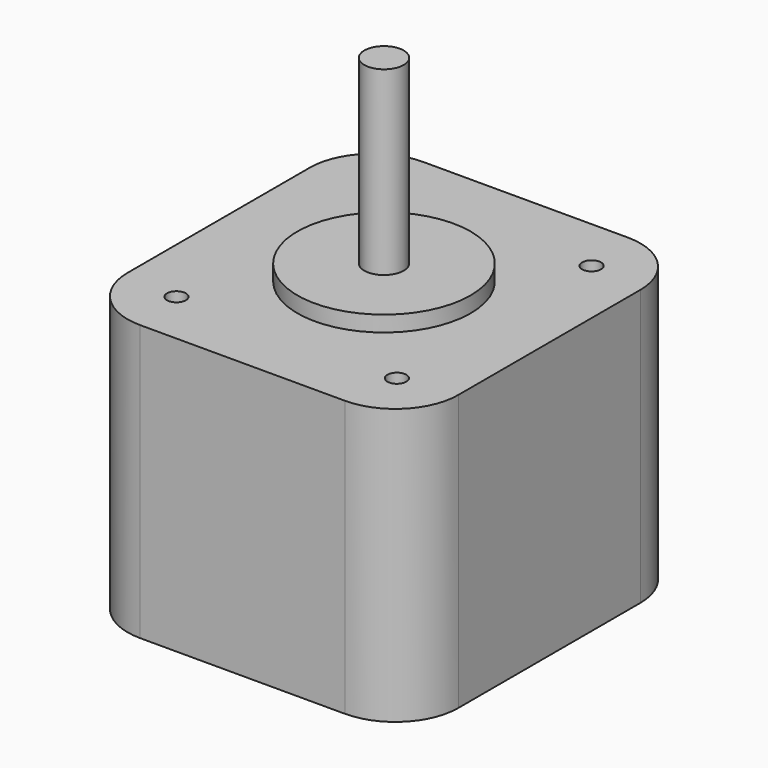
from build123d import *

# Parameters (mm, degrees)
F0_W     = 42
F0_H     = 44.9056578597
F0_R     = 1.5
F0_R_2   = 11
F0_R_3   = 2.5
F1_DEPTH = 35
F2_DEPTH = 2
F3_DEPTH = 25
F4_D     = 2.4
F4_DEPTH = 19.05
F4_TIP   = 0.7210327428
F5_R     = 8


with BuildPart() as f1:
    # F0 (on Top) → F1 (new body)
    with BuildSketch(Plane.XY):
        Rectangle(F0_W, F0_H)
        with Locations((-14, -15.4528289299)):
            Circle(F0_R, mode=Mode.SUBTRACT)
        with Locations((14, -15.4528289299)):
            Circle(F0_R, mode=Mode.SUBTRACT)
        Circle(F0_R_2, mode=Mode.SUBTRACT)
        with Locations((-14, 15.4528289299)):
            Circle(F0_R, mode=Mode.SUBTRACT)
        with Locations((14, 15.4528289299)):
            Circle(F0_R, mode=Mode.SUBTRACT)
        with Locations((-14, -15.4528289299)):
            Circle(F0_R)
        Circle(F0_R_2)
        Circle(F0_R_3, mode=Mode.SUBTRACT)
        Circle(F0_R_3)
        with Locations((14, -15.4528289299)):
            Circle(F0_R)
        with Locations((-14, 15.4528289299)):
            Circle(F0_R)
        with Locations((14, 15.4528289299)):
            Circle(F0_R)
    extrude(amount=-F1_DEPTH)

    # F0 (on Top) → F2 (join)
    with BuildSketch(Plane.XY):
        Circle(F0_R_2)
        Circle(F0_R_3, mode=Mode.SUBTRACT)
        Circle(F0_R_3)
    extrude(amount=F2_DEPTH)

    # F0 (on Top) → F3 (join)
    with BuildSketch(Plane.XY):
        Circle(F0_R_3)
    extrude(amount=F3_DEPTH)

    # F4
    with Locations(Plane.XY):
        with Locations((-14, 15.4528289299), (14, 15.4528289299), (14, -15.4528289299), (-14, -15.4528289299)):
            Hole(F4_D / 2, depth=F4_DEPTH)
            with Locations((0, 0, -(F4_DEPTH + F4_TIP / 2))):  # 118° drill point
                Cone(0, F4_D / 2, F4_TIP, mode=Mode.SUBTRACT)

    # F5
    f5_edges = [f1.edges().sort_by_distance(p)[0] for p in [
        (21, 22.452829, -17.5),
        (21, -22.452829, -17.5),
        (-21, 22.452829, -17.5),
        (-21, -22.452829, -17.5),
    ]]
    fillet(f5_edges, radius=F5_R)


solid = f1.part
